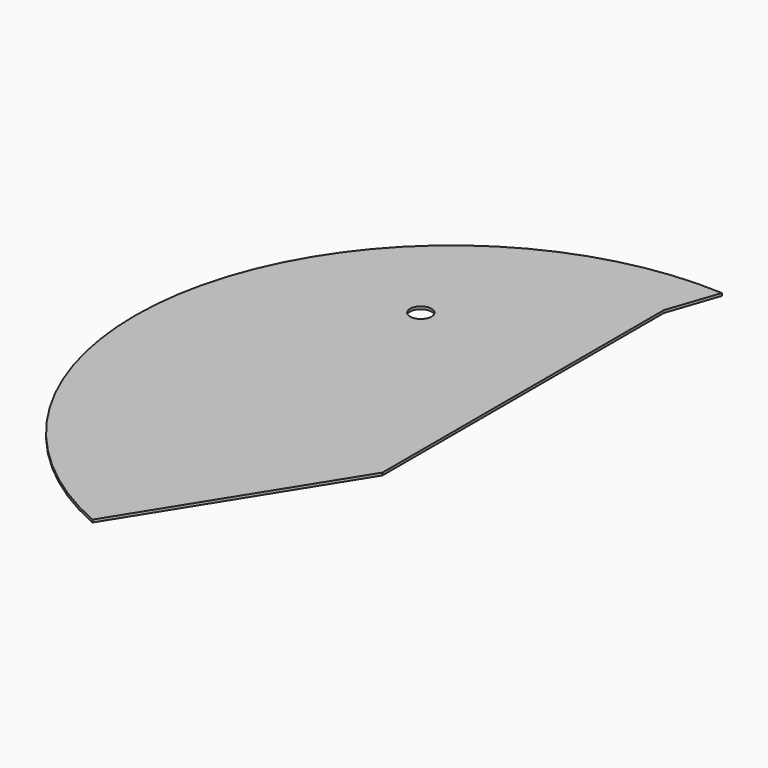
from build123d import *

# Parameters (mm, degrees)
F0_R     = 12.5
F1_DEPTH = 3


with BuildPart() as f1:
    # F0 (on Top) → F1 (new body)
    with BuildSketch(Plane.XY):
        with BuildLine():
            Line((-17.870255, 414.621119), (2.345661, 474.068432))
            ThreePointArc((2.345661, 474.068432), (-377.797369, 190.367681), (-166.401004, -234.257349))
            Line((-166.401004, -234.257349), (-17.870255, 3.655279))
            Line((-17.870255, 3.655279), (-17.870255, 104.621119))
            Line((-17.870255, 104.621119), (-17.870255, 414.621119))
        make_face()
        with Locations((-187.870255, 272.119941)):
            Circle(F0_R, mode=Mode.SUBTRACT)
    extrude(amount=F1_DEPTH)


solid = f1.part
